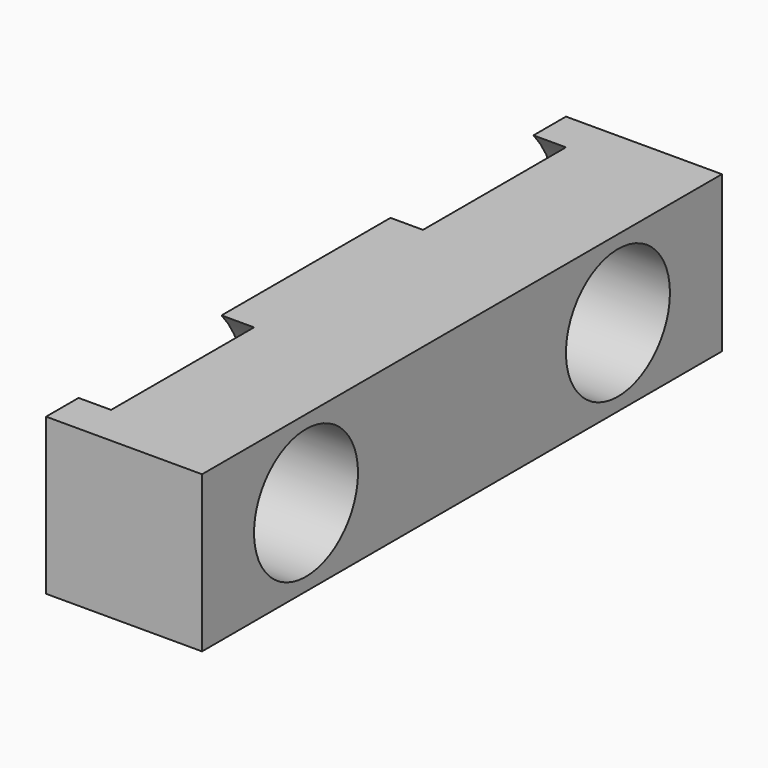
from build123d import *

# Parameters (mm, degrees)
F0_W     = 100
F0_H     = 24
F0_R     = 10
F1_DEPTH = 24
F2_R     = 10
F3_DEPTH = 5
F5_D     = 3.3
F5_DEPTH = 14.1
F5_TIP   = 0.9914200214


with BuildPart() as f1:
    # F0 (on Right) → F1 (new body)
    with BuildSketch(Plane.YZ):
        Rectangle(F0_W, F0_H)
        with Locations((-30, 0)):
            Circle(F0_R, mode=Mode.SUBTRACT)
        with Locations((30, 0)):
            Circle(F0_R, mode=Mode.SUBTRACT)
    extrude(amount=F1_DEPTH)

    # F2 (on face) → F3 (cut)
    with BuildSketch(Plane(origin=(0, 0, 0), x_dir=(0, -1, 0), z_dir=(-1, 0, 0))):
        with BuildLine():
            ThreePointArc((-16.25, -12), (-12.9119925094, -6.408002809), (-11.75, 0))
            ThreePointArc((-11.75, 0), (-12.9119925094, 6.408002809), (-16.25, 12))
            Line((-16.25, 12), (-43.75, 12))
            ThreePointArc((-43.75, 12), (-48.25, 0), (-43.75, -12))
            Line((-43.75, -12), (-16.25, -12))
        make_face()
        with Locations((-30, 0)):
            Circle(F2_R, mode=Mode.SUBTRACT)
        with BuildLine():
            Line((43.75, 12), (16.25, 12))
            ThreePointArc((16.25, 12), (11.75, 0), (16.25, -12))
            Line((16.25, -12), (43.75, -12))
            ThreePointArc((43.75, -12), (47.0880074906, -6.408002809), (48.25, 0))
            ThreePointArc((48.25, 0), (47.0880074906, 6.408002809), (43.75, 12))
        make_face()
        with Locations((30, 0)):
            Circle(F2_R, mode=Mode.SUBTRACT)
    extrude(amount=-F3_DEPTH, mode=Mode.SUBTRACT)

    # F5
    with Locations(Plane(origin=(5, 0, 0), x_dir=(0, -1, 0), z_dir=(-1, 0, 0))):
        with Locations((-41.2583302492, 6.5), (-41.2583302492, -6.5), (-18.7416697508, 6.5), (-18.7416697508, -6.5), (18.7416697508, 6.5), (18.7416697508, -6.5), (41.2583302492, 6.5), (41.2583302492, -6.5)):
            Hole(F5_D / 2, depth=F5_DEPTH)
            with Locations((0, 0, -(F5_DEPTH + F5_TIP / 2))):  # 118° drill point
                Cone(0, F5_D / 2, F5_TIP, mode=Mode.SUBTRACT)


solid = f1.part
